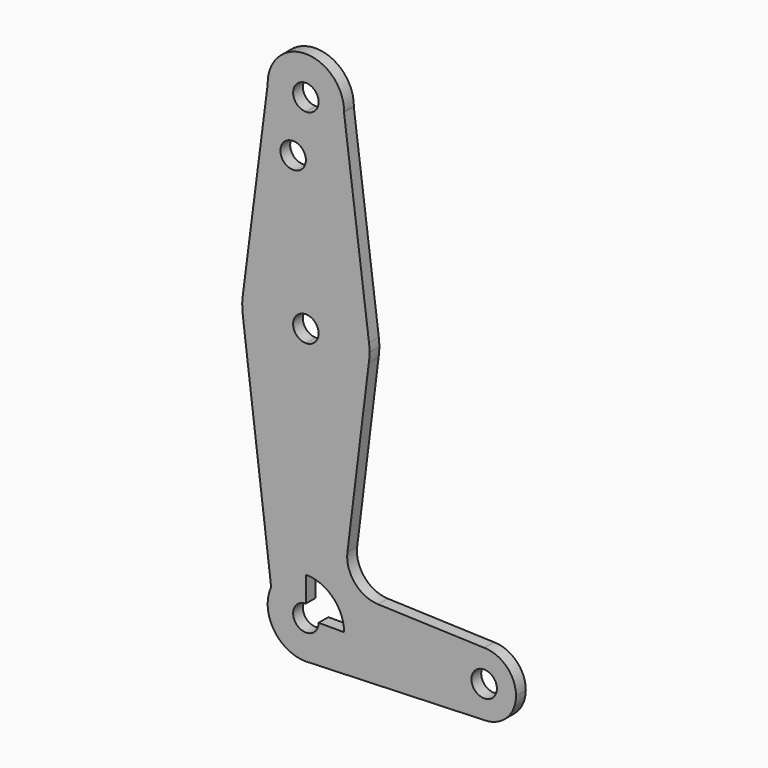
from build123d import *

# Parameters (mm, degrees)
F0_R     = 3.175
F1_DEPTH = 3.048


with BuildPart() as f1:
    # F0 (on Front) → F1 (new body)
    with BuildSketch(Plane.XZ):
        with BuildLine():
            ThreePointArc((3.175, 0), (-2.245064, -2.245064), (0, 3.175))
            Line((0, 3.175), (0, 9.525))
            ThreePointArc((0, 9.525), (-5.138822, 8.019859), (-8.65357, 3.98012))
            ThreePointArc((-8.65357, 3.98012), (-8.019859, -5.138822), (0, -9.525))
            Line((0, -9.525), (0.67949, -9.500732))
            ThreePointArc((0.67949, -9.500732), (6.97129, -6.490511), (9.525, 0))
            Line((9.525, 0), (3.175, 0))
        make_face()
        with BuildLine():
            ThreePointArc((-8.65357, 3.98012), (-5.138822, 8.019859), (0, 9.525))
            Line((0, 9.525), (0, 47.625))
            ThreePointArc((0, 47.625), (-10.352875, 51.465317), (-15.696828, 61.128247))
            Line((-15.696828, 61.128247), (-8.65357, 3.98012))
        make_face()
        with BuildLine():
            Line((0, 47.625), (0, 9.525))
            ThreePointArc((0, 9.525), (6.735192, 6.735192), (9.525, 0))
            Line((9.525, 0), (36.5125, 0))
            ThreePointArc((36.5125, 0), (38.83734, 5.61266), (44.45, 7.9375))
            Line((44.45, 7.9375), (17.963683, 8.88344))
            ThreePointArc((17.963683, 8.88344), (12.198841, 11.669102), (10.356939, 17.801044))
            Line((10.356939, 17.801044), (15.696828, 61.128247))
            ThreePointArc((15.696828, 61.128247), (10.352875, 51.465317), (0, 47.625))
        make_face()
        with BuildLine():
            Line((36.5125, 0), (9.525, 0))
            ThreePointArc((9.525, 0), (6.97129, -6.490511), (0.67949, -9.500732))
            Line((0.67949, -9.500732), (44.45, -7.9375))
            ThreePointArc((44.45, -7.9375), (38.83734, -5.61266), (36.5125, 0))
        make_face()
        with BuildLine():
            ThreePointArc((-15.696828, 61.128247), (-10.352875, 51.465317), (0, 47.625))
            Line((0, 47.625), (0, 60.325))
            ThreePointArc((0, 60.325), (-3.175, 63.5), (0, 66.675))
            Line((0, 66.675), (0, 79.375))
            ThreePointArc((0, 79.375), (-10.486729, 75.418227), (-15.745917, 65.520324))
            ThreePointArc((-15.745917, 65.520324), (-15.874009, 63.322579), (-15.696828, 61.128247))
        make_face()
        with BuildLine():
            Line((0, 60.325), (0, 47.625))
            ThreePointArc((0, 47.625), (10.352875, 51.465317), (15.696828, 61.128247))
            ThreePointArc((15.696828, 61.128247), (15.830394, 62.310782), (15.875, 63.5))
            ThreePointArc((15.875, 63.5), (15.842697, 64.512222), (15.745917, 65.520324))
            ThreePointArc((15.745917, 65.520324), (10.486729, 75.418227), (0, 79.375))
            Line((0, 79.375), (0, 66.675))
            ThreePointArc((0, 66.675), (2.245064, 65.745064), (3.175, 63.5))
            ThreePointArc((3.175, 63.5), (2.245064, 61.254936), (0, 60.325))
        make_face()
        with BuildLine():
            ThreePointArc((47.625, 0), (44.45, 3.175), (41.275, 0))
            ThreePointArc((41.275, 0), (44.45, -3.175), (47.625, 0))
        make_face()
        with BuildLine():
            ThreePointArc((44.45, 7.9375), (38.83734, 5.61266), (36.5125, 0))
            ThreePointArc((36.5125, 0), (38.83734, -5.61266), (44.45, -7.9375))
            ThreePointArc((44.45, -7.9375), (50.06266, -5.61266), (52.3875, 0))
            ThreePointArc((52.3875, 0), (50.06266, 5.61266), (44.45, 7.9375))
        make_face()
        with BuildLine():
            ThreePointArc((47.625, 0), (44.45, -3.175), (41.275, 0))
            ThreePointArc((41.275, 0), (44.45, 3.175), (47.625, 0))
        make_face(mode=Mode.SUBTRACT)
        with BuildLine():
            ThreePointArc((0, -9.525), (0.339962, -9.518931), (0.67949, -9.500732))
            Line((0.67949, -9.500732), (0, -9.525))
        make_face()
        with BuildLine():
            Line((-9.521276, 114.033683), (-15.745917, 65.520324))
            ThreePointArc((-15.745917, 65.520324), (-10.486729, 75.418227), (0, 79.375))
            Line((0, 79.375), (0, 100.516193))
            Line((0, 100.516193), (0, 104.775))
            ThreePointArc((0, 104.775), (-6.640367, 107.4713), (-9.521276, 114.033683))
        make_face()
        with Locations((-3.175, 100.516193)):
            Circle(F0_R, mode=Mode.SUBTRACT)
        with BuildLine():
            Line((0, 100.516193), (0, 79.375))
            ThreePointArc((0, 79.375), (10.486729, 75.418227), (15.745917, 65.520324))
            Line((15.745917, 65.520324), (9.521276, 114.033683))
            ThreePointArc((9.521276, 114.033683), (6.640367, 107.4713), (0, 104.775))
            Line((0, 104.775), (0, 100.516193))
        make_face()
        with BuildLine():
            ThreePointArc((3.175, 114.3), (-2.245064, 116.545064), (0, 111.125))
            ThreePointArc((0, 111.125), (2.245064, 112.054936), (3.175, 114.3))
        make_face()
        with BuildLine():
            ThreePointArc((9.525, 114.3), (-0.133172, 123.824069), (-9.521276, 114.033683))
            ThreePointArc((-9.521276, 114.033683), (-6.640367, 107.4713), (0, 104.775))
            ThreePointArc((0, 104.775), (6.640367, 107.4713), (9.521276, 114.033683))
            ThreePointArc((9.521276, 114.033683), (9.524069, 114.166828), (9.525, 114.3))
        make_face()
        with BuildLine():
            ThreePointArc((3.175, 114.3), (2.245064, 112.054936), (0, 111.125))
            ThreePointArc((0, 111.125), (-2.245064, 116.545064), (3.175, 114.3))
        make_face(mode=Mode.SUBTRACT)
    extrude(amount=F1_DEPTH)


solid = f1.part
